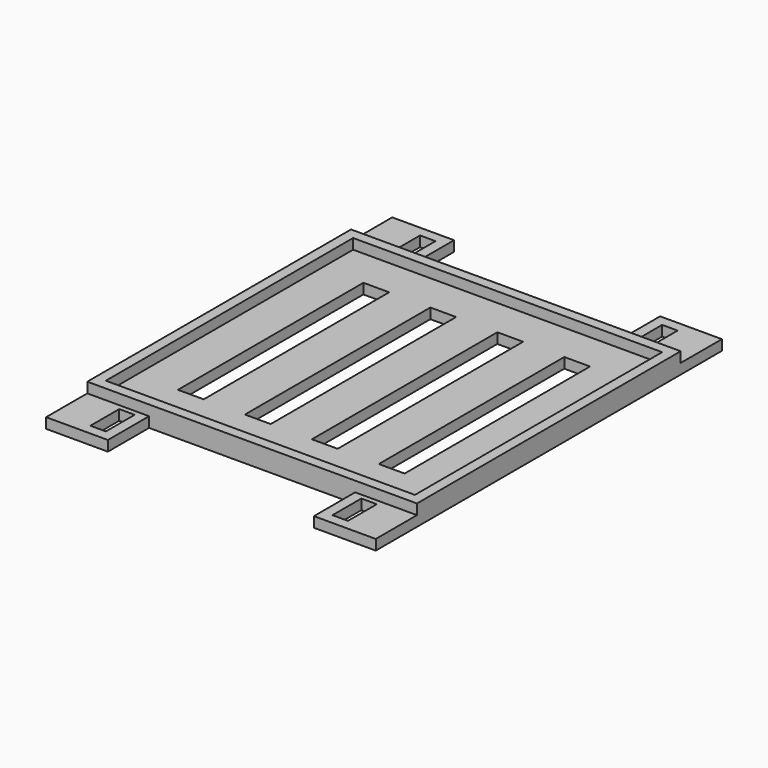
from build123d import *

# Parameters (mm, degrees)
SKETCH_W      = 5
SKETCH_H      = 45
SKETCH_W_2    = 3
SKETCH_H_2    = 7
PAD_DEPTH     = 2
SKETCH006_W   = 64
SKETCH006_H   = 64
SKETCH006_W_2 = 60
SKETCH006_H_2 = 60
PAD001_DEPTH  = 2


with BuildPart() as part:
    # Sketch → Pad (new body)
    with BuildSketch(Plane.XY):
        Polygon((64, 0), (64, 84), (52, 84), (52, 74), (12, 74), (12, 84), (0, 84), (0, 0), (12, 0), (12, 10), (52, 10), (52, 0), align=None)
        with Locations((12.5, 42)):
            Rectangle(SKETCH_W, SKETCH_H, mode=Mode.SUBTRACT)
        with Locations((25.5, 42)):
            Rectangle(SKETCH_W, SKETCH_H, mode=Mode.SUBTRACT)
        with Locations((38.5, 42)):
            Rectangle(SKETCH_W, SKETCH_H, mode=Mode.SUBTRACT)
        with Locations((51.5, 42)):
            Rectangle(SKETCH_W, SKETCH_H, mode=Mode.SUBTRACT)
        with Locations((8.5, 78.5)):
            Rectangle(SKETCH_W_2, SKETCH_H_2, mode=Mode.SUBTRACT)
        with Locations((55.5, 78.5)):
            Rectangle(SKETCH_W_2, SKETCH_H_2, mode=Mode.SUBTRACT)
        with Locations((55.5, 5.5)):
            Rectangle(SKETCH_W_2, SKETCH_H_2, mode=Mode.SUBTRACT)
        with Locations((8.5, 5.5)):
            Rectangle(SKETCH_W_2, SKETCH_H_2, mode=Mode.SUBTRACT)
    extrude(amount=PAD_DEPTH)

    # Sketch006 → Pad001 (join)
    with BuildSketch(Plane.XY.offset(2)):
        with Locations((32, 42)):
            Rectangle(SKETCH006_W, SKETCH006_H)
        with Locations((32, 42)):
            Rectangle(SKETCH006_W_2, SKETCH006_H_2, mode=Mode.SUBTRACT)
    extrude(amount=PAD001_DEPTH)


solid = part.part
